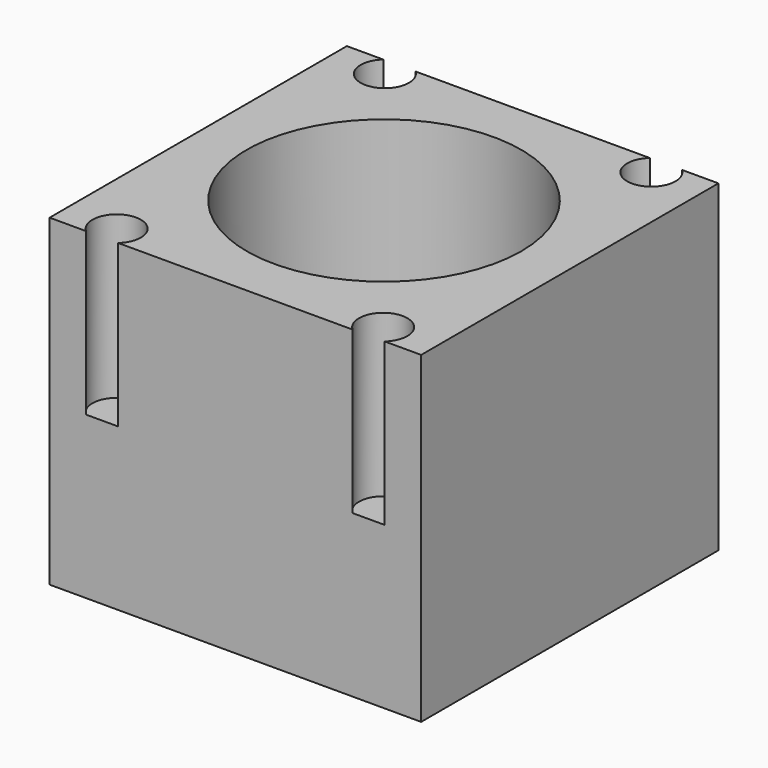
from build123d import *

# Parameters (mm, degrees)
SKETCH_W        = 46
SKETCH_H        = 46
PAD_DEPTH       = 40
SKETCH001_R     = 17
POCKET_DEPTH    = 40.001
SKETCH002_R     = 3
POCKET001_DEPTH = 20


with BuildPart() as part:
    # Sketch → Pad (new body)
    with BuildSketch(Plane.XY):
        Rectangle(SKETCH_W, SKETCH_H)
    extrude(amount=PAD_DEPTH)

    # Sketch001 (on Face6 of Pad) → Pocket (cut, through all)
    with BuildSketch(Plane.XY.offset(40)):
        Circle(SKETCH001_R)
    extrude(amount=-POCKET_DEPTH, mode=Mode.SUBTRACT)

    # Sketch002 (on Face5 of Pocket) → Pocket001 (cut)
    with BuildSketch(Plane.XY.offset(40)):
        with Locations((16.5, 20.75)):
            Circle(SKETCH002_R)
        with Locations((-16.5, 20.75)):
            Circle(SKETCH002_R)
        with Locations((-16.5, -20.75)):
            Circle(SKETCH002_R)
        with Locations((16.5, -20.75)):
            Circle(SKETCH002_R)
    extrude(amount=-POCKET001_DEPTH, mode=Mode.SUBTRACT)


solid = part.part
